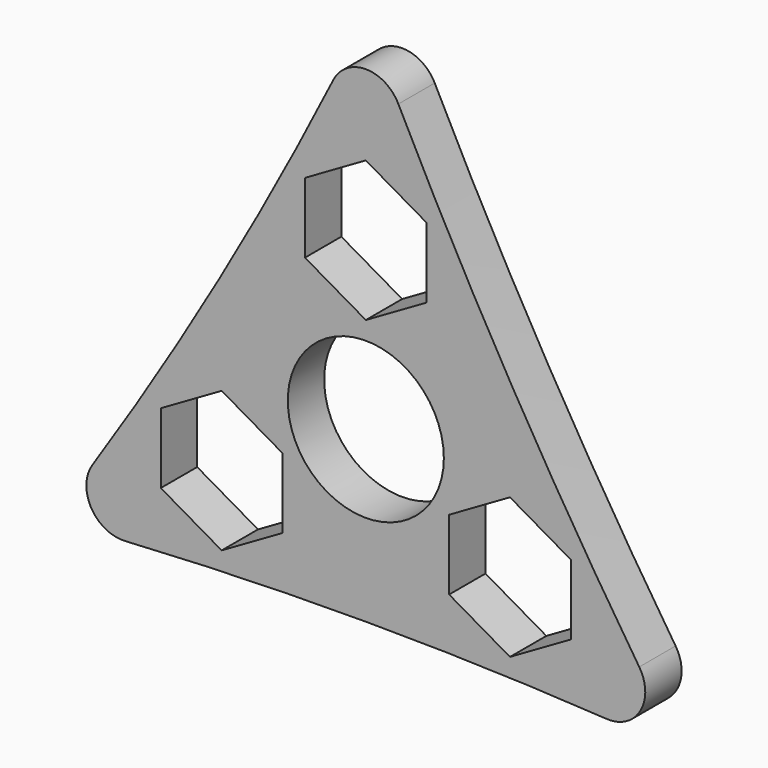
from build123d import *

# Parameters (mm, degrees)
F0_R     = 10.9
F1_DEPTH = 6.35
F2_R     = 5.08


with BuildPart() as f1:
    # F0 (on Front) → F1 (new body)
    with BuildSketch(Plane.XZ):
        with BuildLine():
            ThreePointArc((0, 50.8), (-20.4902984868, 11.8300793471), (-43.9940905122, -25.4))
            ThreePointArc((-43.9940905122, -25.4), (0, -23.6601586942), (43.9940905122, -25.4))
            ThreePointArc((43.9940905122, -25.4), (20.4902984868, 11.8300793471), (0, 50.8))
        make_face()
        Polygon((-11.6393814269, -16.5349545762), (-20.1393814269, -21.4424318643), (-28.6393814269, -16.5349545762), (-28.6393814269, -6.72), (-20.1393814269, -1.8125227119), (-11.6393814269, -6.72), align=None, mode=Mode.SUBTRACT)
        Circle(F0_R, mode=Mode.SUBTRACT)
        Polygon((20.1393814269, -1.8125227119), (28.6393814269, -6.72), (28.6393814269, -16.5349545762), (20.1393814269, -21.4424318643), (11.6393814269, -16.5349545762), (11.6393814269, -6.72), align=None, mode=Mode.SUBTRACT)
        Polygon((0, 13.44), (-8.5, 18.3474772881), (-8.5, 28.1624318643), (0, 33.0699091524), (8.5, 28.1624318643), (8.5, 18.3474772881), align=None, mode=Mode.SUBTRACT)
    extrude(amount=F1_DEPTH)

    # F2
    f2_edges = [f1.edges().sort_by_distance(p)[0] for p in [
        (-43.994091, -3.175, -25.4),
        (43.994091, -3.175, -25.4),
        (0, -3.175, 50.8),
    ]]
    fillet(f2_edges, radius=F2_R)


solid = f1.part
